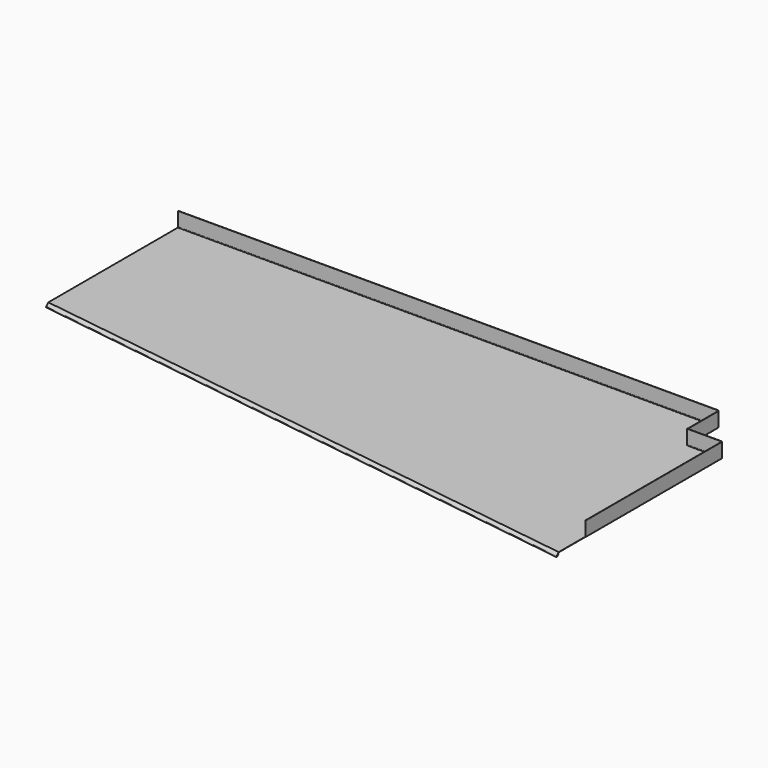
from build123d import *

# Parameters (mm, degrees)
F1_DEPTH  = 1.31064
F6_DEPTH  = 873.125
F9_DEPTH  = 2768.6
F10_DEPTH = 177.4227478045
F11_DEPTH = 198.1364960287


with BuildPart() as f1:
    # F0 (on Top) → F1 (new body)
    with BuildSketch(Plane.XY):
        Polygon((1302.7797686103, 723.7149244852), (-1465.8202313897, 723.7149244852), (-1465.8202313897, -104.9600755148), (1480.2025164147, -518.9965715435), (1480.2025164147, 522.4034284565), (1302.7797686103, 522.4034284565), align=None)
    extrude(amount=F1_DEPTH)

    # F3: sweep along a path in F3_path
    with BuildLine(Plane(origin=(-1465.8202313897, -104.9600755148, 1.31064), x_dir=(-0.9902680687, 0.139173101, 0), z_dir=(-0.139173101, -0.9902680687, 0))) as f3_path:
        Line((0, 0), (-2974.975, 0))
    # F2 (on face) → F3 (sweep)
    with BuildSketch(Plane.YZ.offset(1480.2025164147)):
        with BuildLine():
            Line((-518.9965715435, 0), (-518.9965715435, 1.31064))
            Line((-518.9965715435, 1.31064), (-532.4669557251, -12.1597441816))
            ThreePointArc((-532.4669557251, -12.1597441816), (-532.4669557251, -16.0516650142), (-528.5750348925, -16.0516650142))
            Line((-528.5750348925, -16.0516650142), (-519.7009649314, -7.1775950531))
            Line((-519.7009649314, -7.1775950531), (-520.3562849314, -6.5222750531))
            Line((-520.3562849314, -6.5222750531), (-529.2303548925, -15.3963450142))
            ThreePointArc((-529.2303548925, -15.3963450142), (-531.8116357251, -15.3963450142), (-531.8116357251, -12.8150641816))
            Line((-531.8116357251, -12.8150641816), (-518.9965715435, 0))
        make_face()
    sweep(path=f3_path.line)

    # F5 (on face) → F6 (join)
    with BuildSketch(Plane(origin=(0, 522.4034284565, 0), x_dir=(-1, 0, 0), z_dir=(0, 1, 0))):
        with BuildLine():
            Line((-1483.3775164147, 76.2), (-1483.3775164147, 3.175))
            ThreePointArc((-1483.3775164147, 3.175), (-1482.447580445, 0.9299359697), (-1480.2025164147, 0))
            Line((-1480.2025164147, 0), (-1480.2025164147, 1.31064))
            Line((-1480.2025164147, 1.31064), (-1478.8918764147, 1.31064))
            ThreePointArc((-1478.8918764147, 1.31064), (-1481.136940445, 2.2405759697), (-1482.0668764147, 4.48564))
            Line((-1482.0668764147, 4.48564), (-1482.0668764147, 76.2))
            Line((-1482.0668764147, 76.2), (-1483.3775164147, 76.2))
        make_face()
    extrude(amount=-F6_DEPTH)

    # F7 (on face) → F9 (join, through all)
    with BuildSketch(Plane.YZ.offset(1302.7797686103)):
        with BuildLine():
            ThreePointArc((723.7149244852, 0), (725.9599885154, 0.9299359697), (726.8899244852, 3.175))
            Line((726.8899244852, 3.175), (726.8899244852, 76.2))
            Line((726.8899244852, 76.2), (725.5792844852, 76.2))
            Line((725.5792844852, 76.2), (725.5792844852, 4.48564))
            ThreePointArc((725.5792844852, 4.48564), (724.6493485154, 2.2405759697), (722.4042844852, 1.31064))
            Line((722.4042844852, 1.31064), (723.7149244852, 1.31064))
            Line((723.7149244852, 1.31064), (723.7149244852, 0))
        make_face()
    extrude(amount=-F9_DEPTH)

    # F4 (on face) → F10 (join, through all)
    with BuildSketch(Plane.YZ.offset(1480.2025164147)):
        with BuildLine():
            ThreePointArc((522.4034284565, 0), (524.6484924868, 0.9299359697), (525.5784284565, 3.175))
            Line((525.5784284565, 3.175), (525.5784284565, 76.2))
            Line((525.5784284565, 76.2), (524.2677884565, 76.2))
            Line((524.2677884565, 76.2), (524.2677884565, 4.48564))
            ThreePointArc((524.2677884565, 4.48564), (523.3378524868, 2.2405759697), (521.0927884565, 1.31064))
            Line((521.0927884565, 1.31064), (522.4034284565, 1.31064))
            Line((522.4034284565, 1.31064), (522.4034284565, 0))
        make_face()
    extrude(amount=-F10_DEPTH)

    # F8 (on face) → F11 (join, through all)
    with BuildSketch(Plane(origin=(0, 723.7149244852, 0), x_dir=(-1, 0, 0), z_dir=(0, 1, 0))):
        with BuildLine():
            Line((-1305.9547686103, 76.2), (-1305.9547686103, 3.175))
            ThreePointArc((-1305.9547686103, 3.175), (-1305.0248326405, 0.9299359697), (-1302.7797686103, 0))
            Line((-1302.7797686103, 0), (-1302.7797686103, 1.31064))
            Line((-1302.7797686103, 1.31064), (-1301.6712787008, 1.31064))
            ThreePointArc((-1301.6712787008, 1.31064), (-1303.7845607014, 2.3067802547), (-1304.6441286103, 4.4791980855))
            Line((-1304.6441286103, 4.4791980855), (-1304.6441286103, 76.2))
            Line((-1304.6441286103, 76.2), (-1305.9547686103, 76.2))
        make_face()
    extrude(amount=-F11_DEPTH)


solid = f1.part
